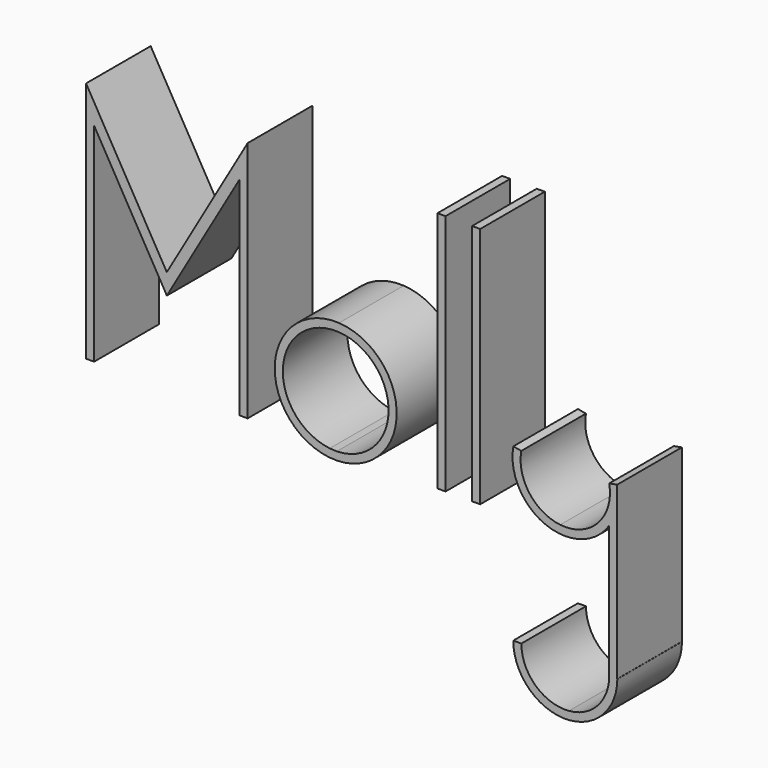
from build123d import *

# Parameters (mm, degrees)
F0_W     = 1.27
F0_H     = 38.1
F1_DEPTH = 6.35


with BuildPart() as f1:
    # F0 (on Front) → F1 (new body, symmetric)
    with BuildSketch(Plane.XZ):
        with BuildLine():
            Line((-22.518771, -17.314378), (-21.231477, -17.372646))
            ThreePointArc((-21.231477, -17.372646), (-11.860949, -7.949196), (-20.917028, 1.776833))
            ThreePointArc((-20.917028, 1.776833), (-30.992348, -6.990651), (-22.518771, -17.314378))
        make_face()
        with BuildLine():
            ThreePointArc((-20.986703, 0.508746), (-13.130778, -7.928344), (-21.259479, -16.102955))
            Line((-21.259479, -16.102955), (-22.376175, -16.052409))
            ThreePointArc((-22.376175, -16.052409), (-29.726794, -7.09683), (-20.986703, 0.508746))
        make_face(mode=Mode.SUBTRACT)
        Polygon((-47.985364, 0), (-60.685364, 21.997045), (-60.685364, -16.102955), (-59.415364, -16.102955), (-59.415364, 16.555277), (-47.985364, -3.242064), (-36.555364, 16.555277), (-36.555364, -16.102955), (-35.285364, -16.102955), (-35.285364, 21.997045), align=None)
        with Locations((-4.815132, 2.947045)):
            Rectangle(F0_W, F0_H)
        with Locations((0.635, 2.947045)):
            Rectangle(F0_W, F0_H)
        with BuildLine():
            ThreePointArc((6.483794, -6.3816), (8.599297, -13.544755), (15.616544, -16.102955))
            ThreePointArc((15.616544, -16.102955), (18.988551, -14.931704), (21.556064, -12.451758))
            Line((21.556064, -12.451758), (21.556064, -9.122014))
            ThreePointArc((21.556064, -9.122014), (18.83474, -13.503633), (13.854417, -14.845492))
            ThreePointArc((13.854417, -14.845492), (9.006453, -12.055452), (7.733309, -6.608785))
            Line((7.733309, -6.608785), (6.483794, -6.3816))
        make_face()
        with BuildLine():
            Line((21.556064, -9.122014), (21.556064, -12.451758))
            ThreePointArc((21.556064, -12.451758), (22.338827, -10.964113), (22.805579, -9.349198))
            Line((22.805579, -9.349198), (22.805579, -6.3816))
            Line((22.805579, -6.3816), (21.556064, -6.608785))
            ThreePointArc((21.556064, -6.608785), (21.669373, -7.865399), (21.556064, -9.122014))
        make_face()
        with BuildLine():
            ThreePointArc((22.805579, -9.349198), (22.338827, -10.964113), (21.556064, -12.451758))
            Line((21.556064, -12.451758), (21.556064, -33.265399))
            Line((21.556064, -33.265399), (22.805579, -33.265399))
            Line((22.805579, -33.265399), (22.805579, -9.349198))
        make_face()
        with BuildLine():
            ThreePointArc((6.483794, -6.3816), (8.599297, -13.544755), (15.616544, -16.102955))
            ThreePointArc((15.616544, -16.102955), (18.988551, -14.931704), (21.556064, -12.451758))
            Line((21.556064, -12.451758), (21.556064, -9.122014))
            ThreePointArc((21.556064, -9.122014), (18.83474, -13.503633), (13.854417, -14.845492))
            ThreePointArc((13.854417, -14.845492), (9.006453, -12.055452), (7.733309, -6.608785))
            Line((7.733309, -6.608785), (6.483794, -6.3816))
        make_face()
        with BuildLine():
            Line((22.805579, -33.265399), (21.556064, -33.265399))
            ThreePointArc((21.556064, -33.265399), (19.731648, -37.943066), (15.22195, -40.150256))
            Line((15.22195, -40.150256), (15.32759, -41.415855))
            ThreePointArc((15.32759, -41.415855), (20.666277, -38.802931), (22.826064, -33.265399))
            Line((22.826064, -33.265399), (22.805579, -33.265399))
        make_face()
        with BuildLine():
            Line((15.32759, -41.415855), (15.22195, -40.150256))
            ThreePointArc((15.22195, -40.150256), (9.969598, -38.349782), (7.738464, -33.265399))
            Line((7.738464, -33.265399), (6.468464, -33.265399))
            ThreePointArc((6.468464, -33.265399), (9.109732, -39.284411), (15.32759, -41.415855))
        make_face()
    extrude(amount=F1_DEPTH, both=True)


solid = f1.part
